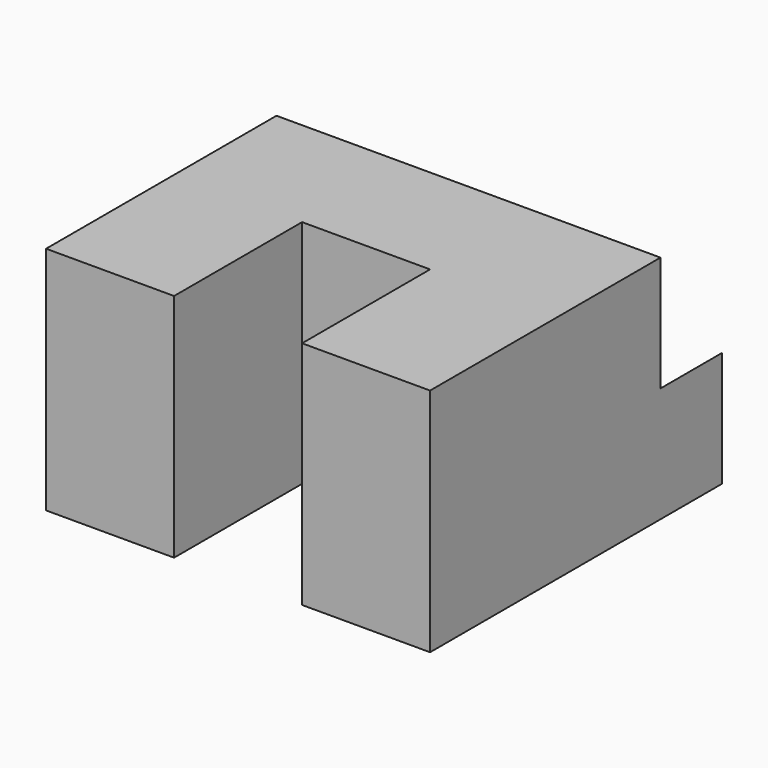
from build123d import *

# Parameters (mm, degrees)
F1_DEPTH = 360
F3_DEPTH = 120


with BuildPart() as f1:
    # F0 (on Top) → F1 (new body)
    with BuildSketch(Plane.XY):
        Polygon((100, -225), (300, -225), (300, 225), (-300, 225), (-300, -225), (-100, -225), (-100, 25), (100, 25), align=None)
    extrude(amount=F1_DEPTH)

    # F2 (on face) → F3 (join)
    with BuildSketch(Plane(origin=(0, 225, 0), x_dir=(-1, 0, 0), z_dir=(0, 1, 0))):
        Polygon((300, 180), (120, 0), (300, 0), align=None)
        Polygon((-300, 0), (-120, 0), (-300, 180), align=None)
    extrude(amount=F3_DEPTH)


solid = f1.part
